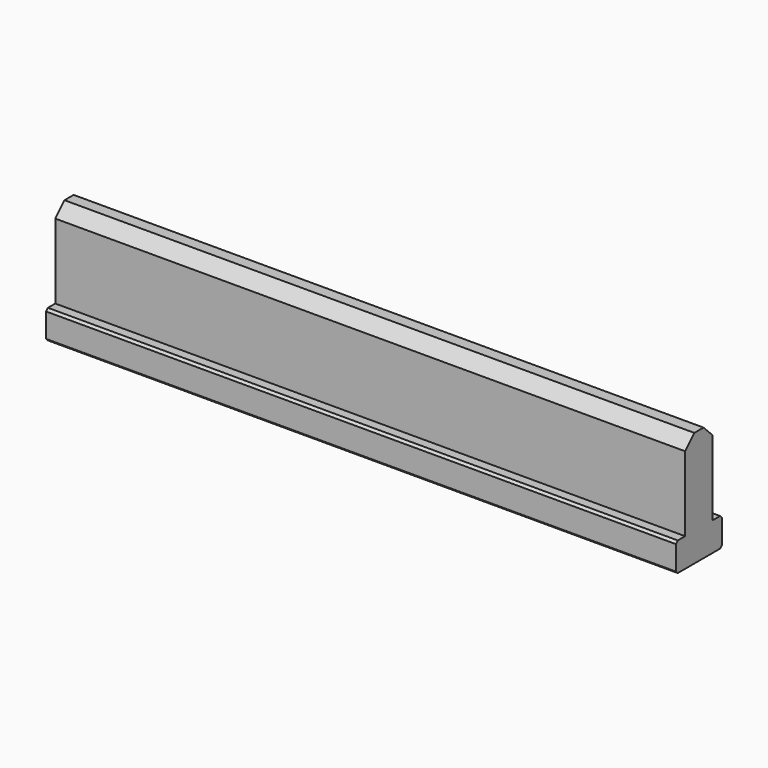
from build123d import *

# Parameters (mm, degrees)
BOX030_W                      = 6
BOX030_H                      = 15
BOX030_DEPTH                  = 109.5
BOX031_W                      = 10
BOX031_H                      = 5
BOX031_DEPTH                  = 109.5
CHAMFER005024_SIZE            = 2
CHAMFER005025_SIZE            = 0.4
CHAMFER005025_ROLL_ANGLE      = 90
CHAMFER005025_PLACEMENT_ANGLE = -90


with BuildPart() as cube030:
    # Box030 → Box030 (new body)
    with BuildSketch(Plane(origin=(-3, 5, 0), x_dir=(1, 0, 0), z_dir=(0, 0, 1))):
        with Locations((3, 7.5)):
            Rectangle(BOX030_W, BOX030_H)
    extrude(amount=BOX030_DEPTH)


with BuildPart() as f_109d5_channel:
    # Box031 → Box031 (new body)
    with BuildSketch(Plane(origin=(-5, 0, 0), x_dir=(1, 0, 0), z_dir=(0, 0, 1))):
        with Locations((5, 2.5)):
            Rectangle(BOX031_W, BOX031_H)
    extrude(amount=BOX031_DEPTH)

    # Fusion020006007003002013006002005002002015002016008: union Cube030
    add(cube030.part)

    # Chamfer005024
    chamfer005024_edges = [f_109d5_channel.edges().sort_by_distance(p)[0] for p in [
        (-3, 20, 54.75),
        (3, 20, 54.75),
    ]]
    chamfer(chamfer005024_edges, length=CHAMFER005024_SIZE)

    # Chamfer005025
    chamfer005025_edges = [f_109d5_channel.edges().sort_by_distance(p)[0] for p in [
        (-5, 5, 54.75),
        (-5, 0, 54.75),
        (5, 5, 54.75),
        (5, 0, 54.75),
    ]]
    chamfer(chamfer005025_edges, length=CHAMFER005025_SIZE)


with BuildPart() as f_109d5_channel_1:
    # Chamfer005025 roll: moved
    add(f_109d5_channel.part.rotate(Axis((0, 0, 0), (1, 0, 0)), CHAMFER005025_ROLL_ANGLE))


with BuildPart() as f_109d5_channel_2:
    # Chamfer005025 placement: moved
    add(f_109d5_channel_1.part.rotate(Axis((0, 0, 0), (0, 0, 1)), CHAMFER005025_PLACEMENT_ANGLE))


solid = f_109d5_channel_2.part
